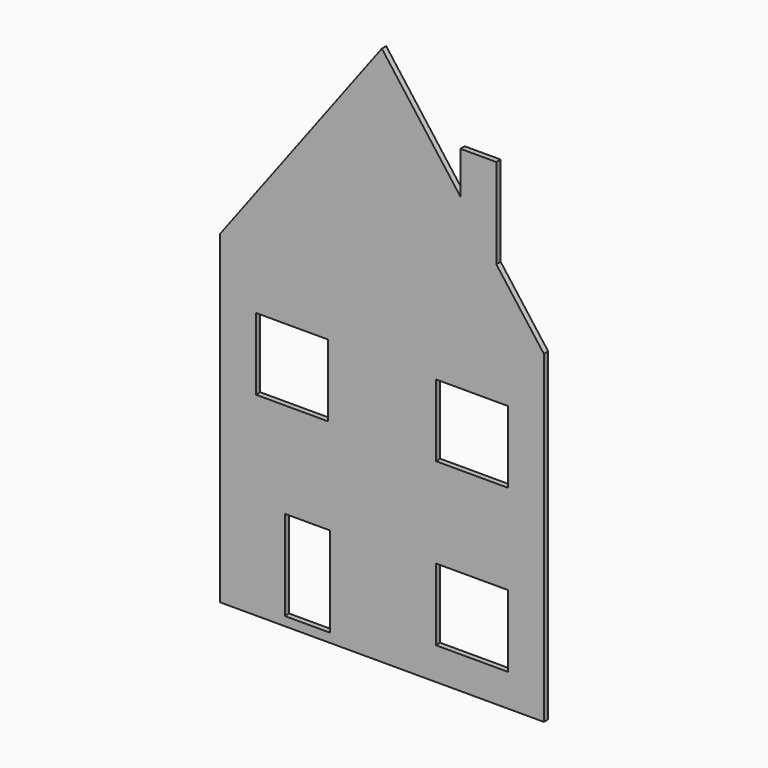
from build123d import *

# Parameters (mm, degrees)
F0_W     = 900
F0_H     = 900
F0_W_2   = 125
F0_H_2   = 250
F0_W_3   = 200
F0_H_3   = 200
F1_DEPTH = 15
F3_DEPTH = 40
F4_W     = 30
F4_H     = 30
F5_DEPTH = 30


with BuildPart() as f1:
    # F0 (on Front) → F1 (new body)
    with BuildSketch(Plane.XZ):
        with Locations((-68.50922, -158.423999)):
            Rectangle(F0_W, F0_H)
        with Locations((-275.546044, -458.423999)):
            Rectangle(F0_W_2, F0_H_2, mode=Mode.SUBTRACT)
        with Locations((-318.50922, 31.576001)):
            Rectangle(F0_W_3, F0_H_3, mode=Mode.SUBTRACT)
        with Locations((181.49078, -418.423999)):
            Rectangle(F0_W_3, F0_H_3, mode=Mode.SUBTRACT)
        with Locations((181.49078, 31.576001)):
            Rectangle(F0_W_3, F0_H_3, mode=Mode.SUBTRACT)
        Polygon((-518.50922, 291.576001), (381.49078, 291.576001), (249.479083, 467.591597), (149.479083, 600.92493), (-68.50922, 891.576001), align=None)
        Polygon((149.479083, 600.92493), (249.479083, 467.591597), (249.479083, 717.591597), (149.479083, 717.591597), align=None)
    extrude(amount=F1_DEPTH)

    # F2 (on face) → F3 (join)
    with BuildSketch(Plane(origin=(0, 0, 0), x_dir=(-1, 0, 0), z_dir=(0, 1, 0))):
        Polygon((18.50922, 291.576001), (68.50922, 291.576001), (118.50922, 291.576001), (118.50922, 341.576001), (18.50922, 341.576001), align=None)
    extrude(amount=F3_DEPTH)

    # F4 (on face) → F5 (cut)
    with BuildSketch(Plane(origin=(0, 40, 0), x_dir=(-1, 0, 0), z_dir=(0, 1, 0))):
        with Locations((68.50922, 306.576001)):
            Rectangle(F4_W, F4_H)
    extrude(amount=-F5_DEPTH, mode=Mode.SUBTRACT)


solid = f1.part
